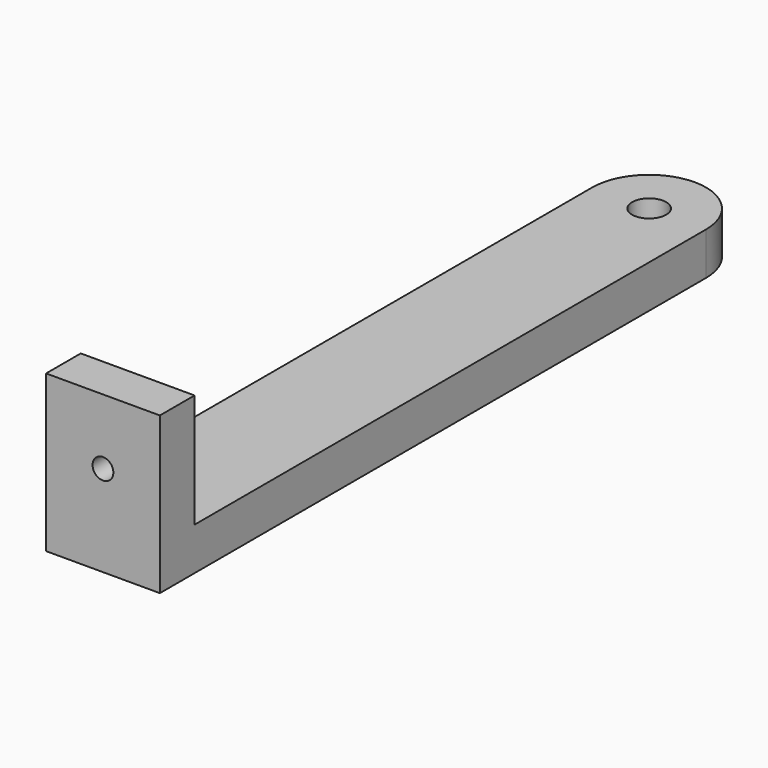
from build123d import *

# Parameters (mm, degrees)
F0_R     = 3.75
F1_DEPTH = 9.375
F2_W     = 25
F2_H     = 9.525
F3_DEPTH = 25
F4_R     = 2.283414
F5_DEPTH = 9.525


with BuildPart() as f1:
    # F0 (on Top) → F1 (new body)
    with BuildSketch(Plane.XY):
        with BuildLine():
            Line((0, 150), (0, 0))
            Line((0, 0), (25, 0))
            Line((25, 0), (25, 150))
            ThreePointArc((25, 150), (12.5, 162.5), (0, 150))
        make_face()
        with Locations((12.5, 150)):
            Circle(F0_R, mode=Mode.SUBTRACT)
    extrude(amount=F1_DEPTH)

    # F2 (on face) → F3 (join)
    with BuildSketch(Plane.XY.offset(9.375)):
        with Locations((12.5, 4.7625)):
            Rectangle(F2_W, F2_H)
    extrude(amount=F3_DEPTH)

    # F4 (on face) → F5 (cut, through all)
    with BuildSketch(Plane(origin=(0, 9.525, 0), x_dir=(-1, 0, 0), z_dir=(0, 1, 0))):
        with Locations((-12.5, 20)):
            Circle(F4_R)
    extrude(amount=-F5_DEPTH, mode=Mode.SUBTRACT)


solid = f1.part
